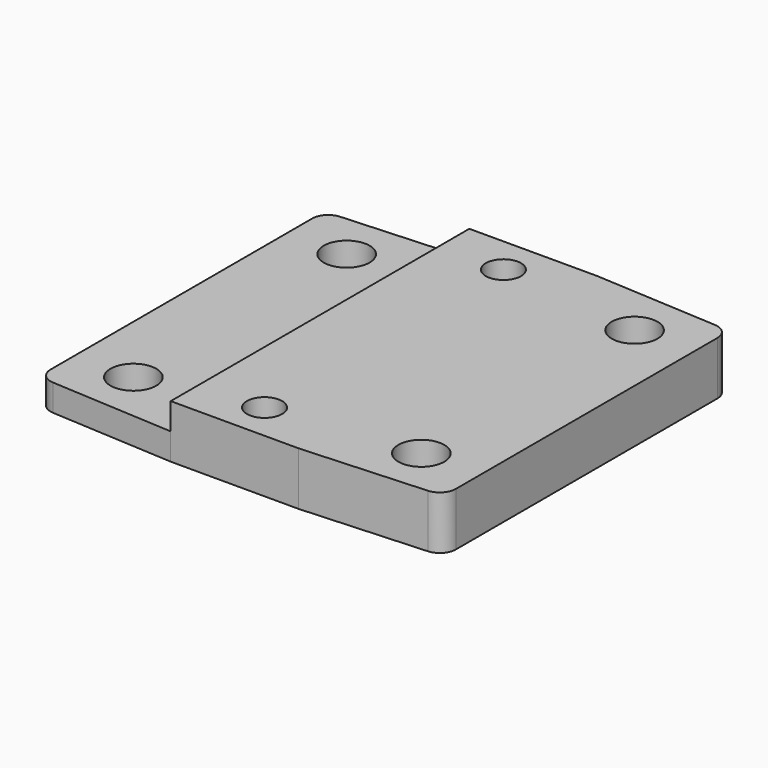
from build123d import *

# Parameters (mm, degrees)
SKETCH_R        = 4.3
PAD_DEPTH       = 10
SKETCH001_R     = 3.3
POCKET_DEPTH    = 10.001
POCKET001_DEPTH = 5.2
FILLET_R        = 3
SKETCH003_W     = 26
SKETCH003_H     = 70
POCKET002_DEPTH = 5


with BuildPart() as part:
    # Sketch → Pad (new body)
    with BuildSketch(Plane.XY):
        Polygon((76, 0), (76, 67), (50, 68.5), (26, 68.5), (0, 67), (0, 0), (26, -1.5), (50, -1.5), align=None)
        with Locations((11, 58.5)):
            Circle(SKETCH_R, mode=Mode.SUBTRACT)
        with Locations((65, 58.5)):
            Circle(SKETCH_R, mode=Mode.SUBTRACT)
        with Locations((65, 8.5)):
            Circle(SKETCH_R, mode=Mode.SUBTRACT)
        with Locations((11, 8.5)):
            Circle(SKETCH_R, mode=Mode.SUBTRACT)
    extrude(amount=PAD_DEPTH)

    # Sketch001 (on Face14 of Pad) → Pocket (cut, through all)
    with BuildSketch(Plane.XY.offset(10)):
        with Locations((38, 61.5)):
            Circle(SKETCH001_R)
        with Locations((38, 5.5)):
            Circle(SKETCH001_R)
    extrude(amount=-POCKET_DEPTH, mode=Mode.SUBTRACT)

    # Sketch002 (on Face4 of Pocket) → Pocket001 (cut)
    with BuildSketch(Plane(origin=(0, 0, 0), x_dir=(1, 0, 0), z_dir=(0, 0, -1))):
        Polygon((40.973354, -10.65), (43.946708, -5.5), (40.973354, -0.35), (35.026646, -0.35), (32.053292, -5.5), (35.026646, -10.65), align=None)
        Polygon((43.946708, -61.5), (40.973354, -56.35), (35.026646, -56.35), (32.053292, -61.5), (35.026646, -66.65), (40.973354, -66.65), align=None)
    extrude(amount=-POCKET001_DEPTH, mode=Mode.SUBTRACT)

    # Fillet
    fillet_edges = [part.edges().sort_by_distance(p)[0] for p in [
        (0, 67, 5),
        (0, 0, 5),
        (76, 0, 5),
        (76, 67, 5),
    ]]
    fillet(fillet_edges, radius=FILLET_R)

    # Sketch003 (on Face5 of Fillet) → Pocket002 (cut)
    with BuildSketch(Plane.XY.offset(10)):
        with Locations((13, 33.5)):
            Rectangle(SKETCH003_W, SKETCH003_H)
    extrude(amount=-POCKET002_DEPTH, mode=Mode.SUBTRACT)


solid = part.part
